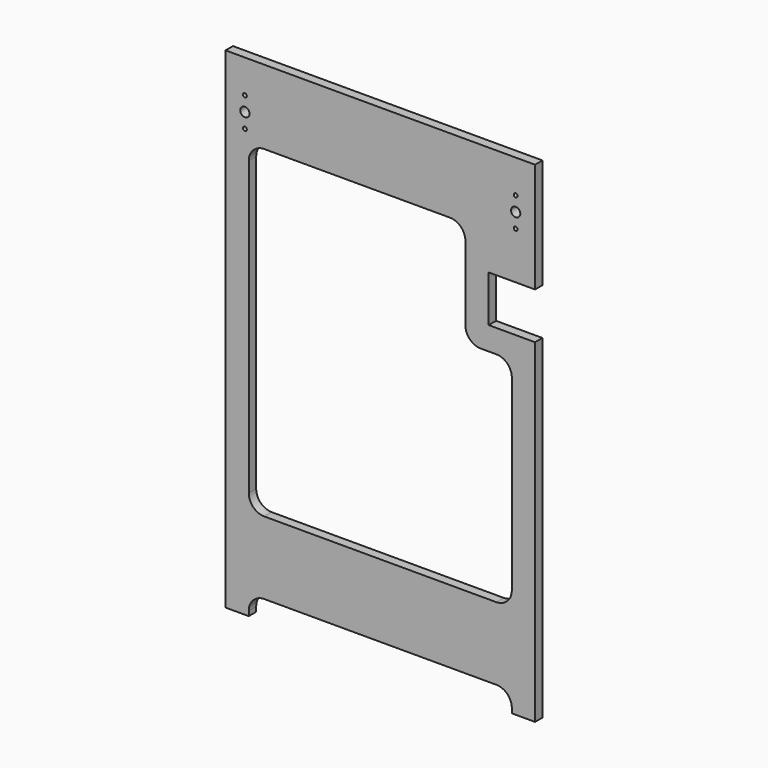
from build123d import *

# Parameters (mm, degrees)
F1_R     = 2.5
F1_R_2   = 6
F1_W     = 400
F1_H     = 12
F1_H_2   = 60
F2_DEPTH = 12


with BuildPart() as f2:
    # F1 (on Front) → F2 (new body)
    with BuildSketch(Plane.XZ):
        Polygon((200, 232), (200, 374), (-200, 374), (-200, -150), (200, -150), (200, 172), (140, 172), (140, 232), align=None)
        with Locations((-175, 293)):
            Circle(F1_R, mode=Mode.SUBTRACT)
        with Locations((-175, 312)):
            Circle(F1_R_2, mode=Mode.SUBTRACT)
        with Locations((-175, 331)):
            Circle(F1_R, mode=Mode.SUBTRACT)
        with BuildLine():
            Line((-150, 278), (90, 278))
            ThreePointArc((90, 278), (104.1421356237, 272.1421356237), (110, 258))
            Line((110, 258), (110, 162))
            ThreePointArc((110, 162), (115.8578643763, 147.8578643763), (130, 142))
            Line((130, 142), (150, 142))
            ThreePointArc((150, 142), (164.1421356237, 136.1421356237), (170, 122))
            Line((170, 122), (170, -120))
            ThreePointArc((170, -120), (164.1421356237, -134.1421356237), (150, -140))
            Line((150, -140), (-150, -140))
            ThreePointArc((-150, -140), (-164.1421356237, -134.1421356237), (-170, -120))
            Line((-170, -120), (-170, 258))
            ThreePointArc((-170, 258), (-164.1421356237, 272.1421356237), (-150, 278))
        make_face(mode=Mode.SUBTRACT)
        with Locations((175, 293)):
            Circle(F1_R, mode=Mode.SUBTRACT)
        with Locations((175, 312)):
            Circle(F1_R_2, mode=Mode.SUBTRACT)
        with Locations((175, 331)):
            Circle(F1_R, mode=Mode.SUBTRACT)
        with Locations((0, -156)):
            Rectangle(F1_W, F1_H)
        with Locations((0, -192)):
            Rectangle(F1_W, F1_H_2)
        Polygon((200, -222), (-200, -222), (-200, -234), (-150, -234), (150, -234), (200, -234), align=None)
        with BuildLine():
            Line((200, -260), (200, -234))
            Line((200, -234), (150, -234))
            ThreePointArc((150, -234), (164.1421356237, -239.8578643763), (170, -254))
            Line((170, -254), (170, -260))
            Line((170, -260), (200, -260))
        make_face()
        with BuildLine():
            Line((-150, -234), (-200, -234))
            Line((-200, -234), (-200, -260))
            Line((-200, -260), (-170, -260))
            Line((-170, -260), (-170, -254))
            ThreePointArc((-170, -254), (-164.1421356237, -239.8578643763), (-150, -234))
        make_face()
    extrude(amount=F2_DEPTH)


solid = f2.part
